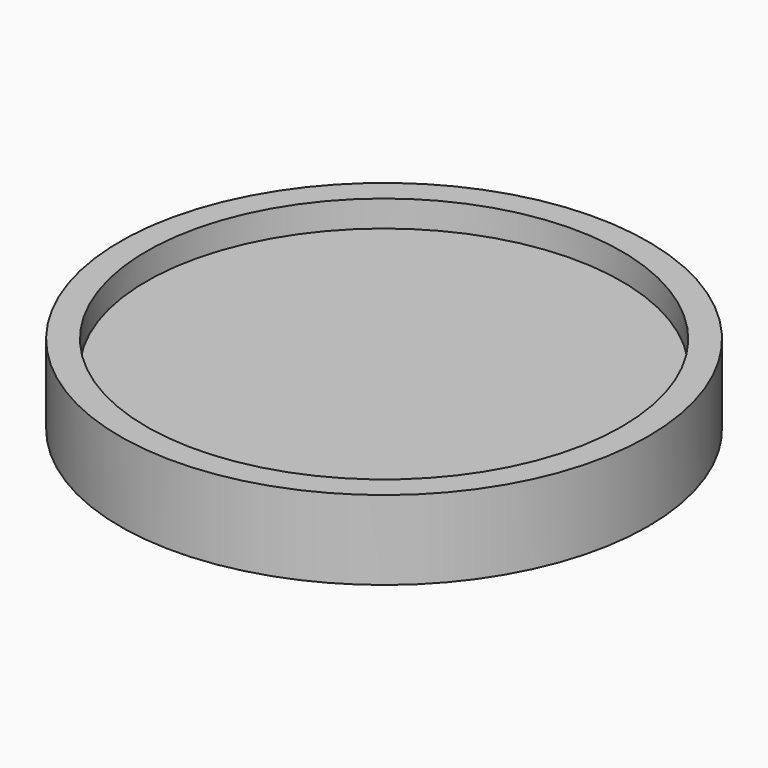
from build123d import *

# Parameters (mm, degrees)
SKETCH_R      = 20
PAD_DEPTH     = 4
SKETCH001_R   = 20
SKETCH001_R_2 = 18
PAD001_DEPTH  = 2


with BuildPart() as part:
    # Sketch → Pad (new body)
    with BuildSketch(Plane.XY):
        Circle(SKETCH_R)
    extrude(amount=PAD_DEPTH)

    # Sketch001 (on Face3 of Pad) → Pad001 (join)
    with BuildSketch(Plane.XY.offset(4)):
        Circle(SKETCH001_R)
        Circle(SKETCH001_R_2, mode=Mode.SUBTRACT)
    extrude(amount=PAD001_DEPTH)


solid = part.part
